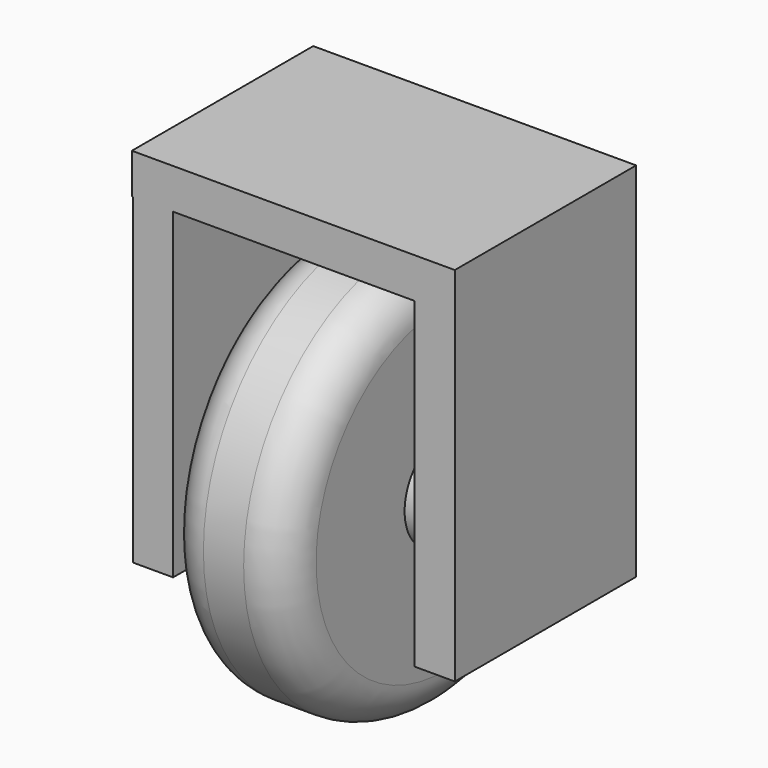
from build123d import *

# Parameters (mm, degrees)
F0_R      = 127
F1_DEPTH  = 38.1
F2_R      = 31.75
F3_DEPTH  = 101.6
F4_R      = 25.4
F5_D      = 76.2
F5_DEPTH  = 12.7
F5_TIP    = 22.892789585
F6_R      = 31.75
F7_DEPTH  = 25.4
F10_DEPTH = 25.4


with BuildPart() as f1:
    # F0 (on Right) → F1 (new body, symmetric)
    with BuildSketch(Plane.YZ):
        Circle(F0_R)
    extrude(amount=F1_DEPTH, both=True)

    # F2 (on Right) → F3 (join, symmetric)
    with BuildSketch(Plane.YZ):
        Circle(F2_R)
    extrude(amount=F3_DEPTH, both=True)

    # F4
    f4_edges = [f1.edges().sort_by_distance(p)[0] for p in [
        (38.1, -127, 0),
        (-38.1, -127, 0),
    ]]
    fillet(f4_edges, radius=F4_R)

    # F5 (one way)
    with BuildSketch(Plane.YZ):
        with Locations((-0.2433381014, -0.4866788513)):
            Circle(F5_D / 2)
    extrude(amount=-F5_DEPTH, mode=Mode.SUBTRACT)
    with Locations(Plane.YZ):
        with Locations((-0.2433381014, -0.4866788513)):
            with Locations((0, 0, -(F5_DEPTH + F5_TIP / 2))):  # 118° drill point
                Cone(0, F5_D / 2, F5_TIP, mode=Mode.SUBTRACT)

    # F6 (on face) → F7 (join)
    with BuildSketch(Plane(origin=(-101.6, 0, 0), x_dir=(0, -1, 0), z_dir=(-1, 0, 0))):
        Polygon((-71.5288005566, -57.7577332966), (0, -57.7577332966), (71.5288005566, -57.7577332966), (71.5288005566, 145.4422667034), (-71.5288005566, 145.4422667034), align=None)
        Circle(F6_R, mode=Mode.SUBTRACT)
    extrude(amount=-F7_DEPTH)

    # F8: F1 across plane


with BuildPart() as f1_1:
    add(f1.part)
    add(f1.part.mirror(Plane.YZ))

    # F9 (on face) → F10 (join)
    with BuildSketch(Plane.XY.offset(145.4422667034)):
        Polygon((101.6, -71.5288005566), (101.6, 71.5288005566), (76.2, 71.5288005566), (-102.2275537252, 71.5288005566), (-102.2275537252, -71.5288005566), (76.2, -71.5288005566), align=None)
    extrude(amount=F10_DEPTH)


solid = f1_1.part
